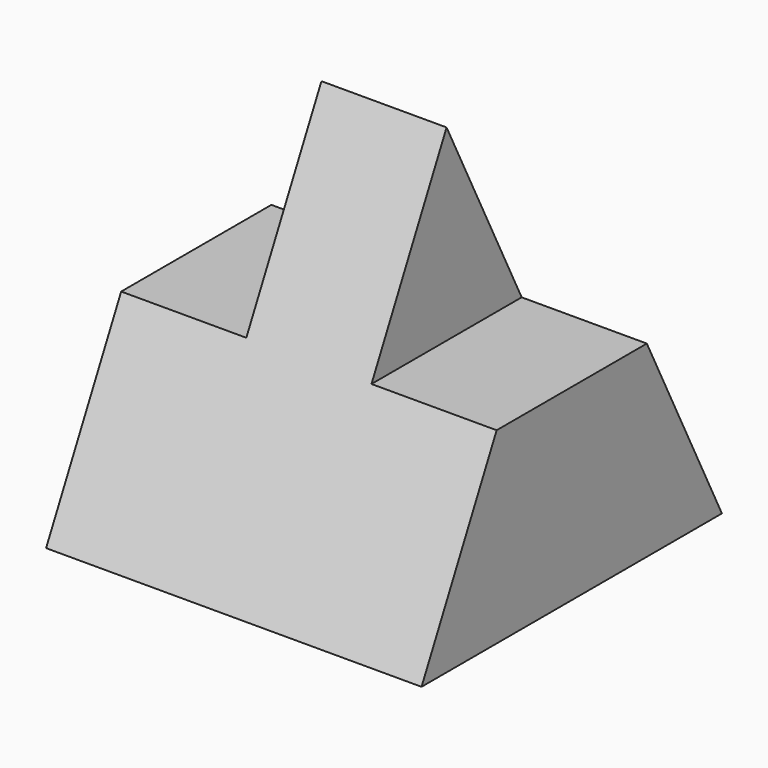
from build123d import *

# Parameters (mm, degrees)
F1_DEPTH = 15
F2_DEPTH = 5


with BuildPart() as f1:
    # F0 (on Right) → F1 (new body, symmetric)
    with BuildSketch(Plane.YZ):
        Polygon((7.5, 15), (0, 0), (30, 0), (22.5, 15), align=None)
    extrude(amount=F1_DEPTH, both=True)

    # F0 (on Right) → F2 (join, symmetric)
    with BuildSketch(Plane.YZ):
        Polygon((15, 30), (7.5, 15), (22.5, 15), align=None)
    extrude(amount=F2_DEPTH, both=True)


solid = f1.part
